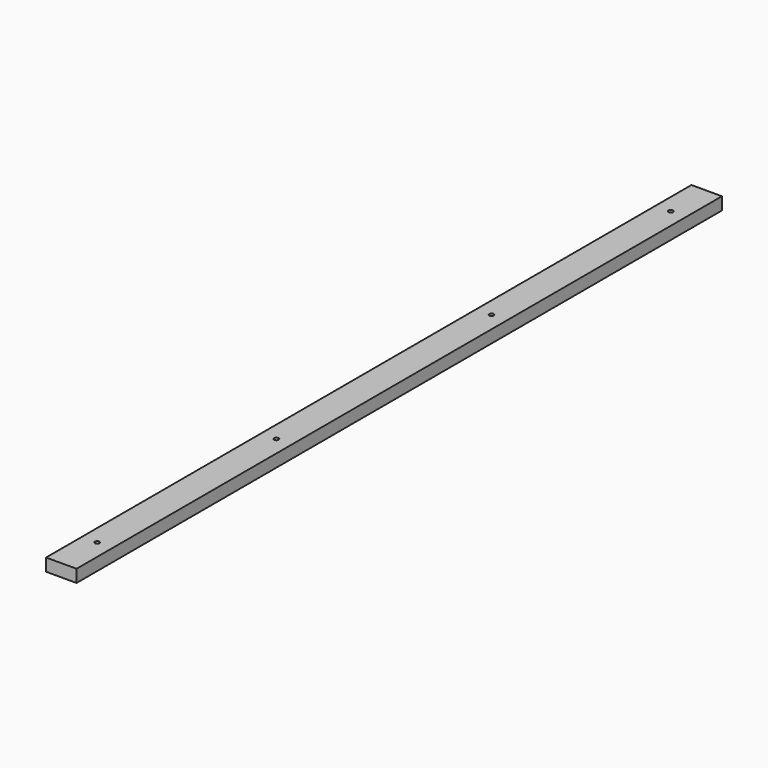
from build123d import *

# Parameters (mm, degrees)
F0_W      = 68
F0_H      = 28
F1_DEPTH  = 900
F3_D      = 10
F4_D      = 15
F4_DEPTH  = 12
F4_TIP    = 4.5064546427
F5_D      = 10
F6_D      = 15
F6_DEPTH  = 12
F6_TIP    = 4.5064546427
F7_D      = 15
F7_DEPTH  = 12
F7_TIP    = 4.5064546427
F8_D      = 10
F9_D      = 10
F10_D     = 15
F10_DEPTH = 12
F10_TIP   = 4.5064546427


with BuildPart() as f1:
    # F0 (on Front) → F1 (new body, symmetric)
    with BuildSketch(Plane.XZ):
        with Locations((-34, 14)):
            Rectangle(F0_W, F0_H)
    extrude(amount=F1_DEPTH, both=True)

    # F3 (through all)
    with Locations(Plane(origin=(0, 0, 0), x_dir=(1, 0, 0), z_dir=(0, 0, -1))):
        with Locations((-34.0233631432, 300)):
            Hole(F3_D / 2)

    # F4
    with Locations(Plane(origin=(0, 0, 0), x_dir=(1, 0, 0), z_dir=(0, 0, -1))):
        with Locations((-34.0233631432, 300)):
            Hole(F4_D / 2, depth=F4_DEPTH)
            with Locations((0, 0, -(F4_DEPTH + F4_TIP / 2))):  # 118° drill point
                Cone(0, F4_D / 2, F4_TIP, mode=Mode.SUBTRACT)

    # F5 (through all)
    with Locations(Plane(origin=(0, 0, 0), x_dir=(1, 0, 0), z_dir=(0, 0, -1))):
        with Locations((-34, -300)):
            Hole(F5_D / 2)

    # F6
    with Locations(Plane(origin=(0, 0, 0), x_dir=(1, 0, 0), z_dir=(0, 0, -1))):
        with Locations((-34, -300)):
            Hole(F6_D / 2, depth=F6_DEPTH)
            with Locations((0, 0, -(F6_DEPTH + F6_TIP / 2))):  # 118° drill point
                Cone(0, F6_D / 2, F6_TIP, mode=Mode.SUBTRACT)

    # F7
    with Locations(Plane(origin=(0, 0, 0), x_dir=(1, 0, 0), z_dir=(0, 0, -1))):
        with Locations((-34, 800)):
            Hole(F7_D / 2, depth=F7_DEPTH)
            with Locations((0, 0, -(F7_DEPTH + F7_TIP / 2))):  # 118° drill point
                Cone(0, F7_D / 2, F7_TIP, mode=Mode.SUBTRACT)

    # F8 (through all)
    with Locations(Plane(origin=(0, 0, 0), x_dir=(1, 0, 0), z_dir=(0, 0, -1))):
        with Locations((-34, 800)):
            Hole(F8_D / 2)

    # F9 (through all)
    with Locations(Plane(origin=(0, 0, 0), x_dir=(1, 0, 0), z_dir=(0, 0, -1))):
        with Locations((-34.0312086046, -800)):
            Hole(F9_D / 2)

    # F10
    with Locations(Plane(origin=(0, 0, 0), x_dir=(1, 0, 0), z_dir=(0, 0, -1))):
        with Locations((-34.0312086046, -800)):
            Hole(F10_D / 2, depth=F10_DEPTH)
            with Locations((0, 0, -(F10_DEPTH + F10_TIP / 2))):  # 118° drill point
                Cone(0, F10_D / 2, F10_TIP, mode=Mode.SUBTRACT)


solid = f1.part
